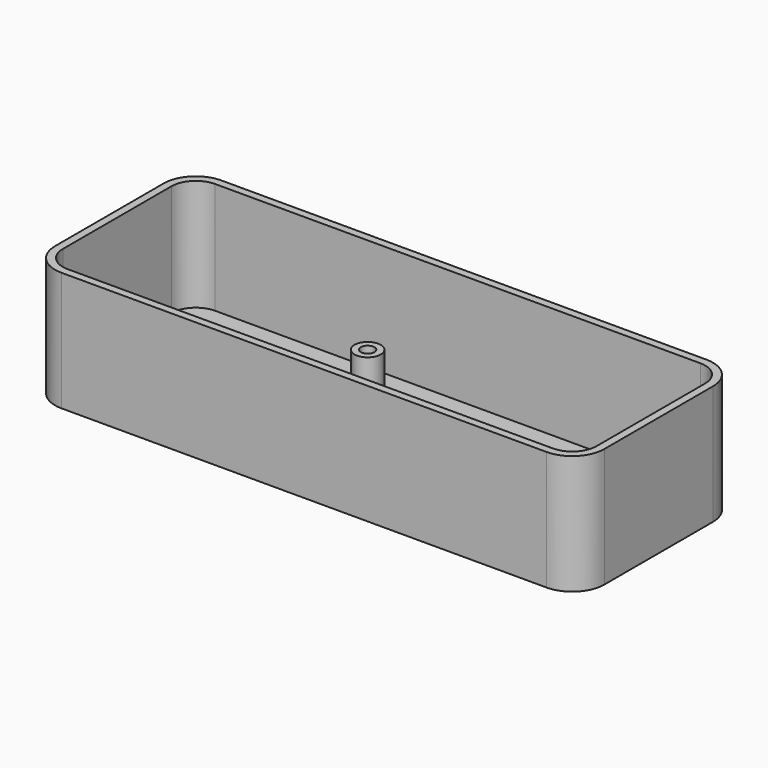
from build123d import *

# Parameters (mm, degrees)
SKETCH002_R      = 2.7
SKETCH002_R_2    = 1.4
EXTRUDE001_DEPTH = 7
EXTRUDE002_DEPTH = 23
EXTRUDE_DEPTH    = 1.6


with BuildPart() as obj1:
    # Sketch002 (on Face10 of Extrude) → Extrude001 (new body)
    with BuildSketch(Plane.XY.offset(-10.4)):
        with Locations((90.524621, -65.993824)):
            Circle(SKETCH002_R)
        with Locations((90.524621, -65.993824)):
            Circle(SKETCH002_R_2, mode=Mode.SUBTRACT)
        with Locations((90.502441, -92.471822)):
            Circle(SKETCH002_R)
        with Locations((90.502441, -92.471822)):
            Circle(SKETCH002_R_2, mode=Mode.SUBTRACT)
        with Locations((153.513474, -66.00515)):
            Circle(SKETCH002_R)
        with Locations((153.513474, -66.00515)):
            Circle(SKETCH002_R_2, mode=Mode.SUBTRACT)
        with Locations((153.502167, -92.48777)):
            Circle(SKETCH002_R)
        with Locations((153.502167, -92.48777)):
            Circle(SKETCH002_R_2, mode=Mode.SUBTRACT)
    extrude(amount=EXTRUDE001_DEPTH)


with BuildPart() as obj1_1:
    # Extrude001 placement: moved
    add(obj1.part.moved(Location((35, 0, 0))))


with BuildPart() as walls:
    # Sketch → Extrude002 (new body)
    with BuildSketch(Plane.XY):
        with BuildLine():
            Line((89.498192, -99.850084), (189.498192, -99.850084))
            ThreePointArc((189.498192, -99.850084), (194.165097, -97.916989), (196.098192, -93.250084))
            Line((196.098192, -93.250084), (196.098192, -65.250084))
            ThreePointArc((196.098192, -65.250084), (194.165097, -60.583179), (189.498192, -58.650084))
            Line((189.498192, -58.650084), (89.498192, -58.650084))
            ThreePointArc((89.498192, -58.650084), (84.831287, -60.583179), (82.898192, -65.250084))
            Line((82.898192, -65.250084), (82.898192, -93.250084))
            ThreePointArc((82.898192, -93.250084), (84.831287, -97.916989), (89.498192, -99.850084))
        make_face()
        with BuildLine():
            Line((89.498192, -60.250084), (189.498192, -60.250084))
            ThreePointArc((194.498192, -65.250084), (193.033726, -61.71455), (189.498192, -60.250084))
            Line((194.498192, -65.250084), (194.498192, -93.250084))
            ThreePointArc((189.498192, -98.250084), (193.033726, -96.785618), (194.498192, -93.250084))
            Line((189.498192, -98.250084), (89.498192, -98.250084))
            ThreePointArc((84.498192, -93.250084), (85.962658, -96.785618), (89.498192, -98.250084))
            Line((84.498192, -93.250084), (84.498192, -65.250084))
            ThreePointArc((89.498192, -60.250084), (85.962658, -61.71455), (84.498192, -65.250084))
        make_face(mode=Mode.SUBTRACT)
    extrude(amount=EXTRUDE002_DEPTH)


with BuildPart() as walls_1:
    # Extrude002 placement: moved
    add(walls.part.moved(Location((0, 0, -10.4))))


with BuildPart() as doos:
    # Sketch001 → Extrude (new body)
    with BuildSketch(Plane.XY):
        with BuildLine():
            Line((89.498192, -99.850084), (189.498192, -99.850084))
            ThreePointArc((189.498192, -99.850084), (194.165097, -97.916989), (196.098192, -93.250084))
            Line((196.098192, -93.250084), (196.098192, -65.250084))
            ThreePointArc((196.098192, -65.250084), (194.165097, -60.583179), (189.498192, -58.650084))
            Line((189.498192, -58.650084), (89.498192, -58.650084))
            ThreePointArc((89.498192, -58.650084), (84.831287, -60.583179), (82.898192, -65.250084))
            Line((82.898192, -65.250084), (82.898192, -93.250084))
            ThreePointArc((82.898192, -93.250084), (84.831287, -97.916989), (89.498192, -99.850084))
        make_face()
    extrude(amount=EXTRUDE_DEPTH)


with BuildPart() as doos_1:
    # Extrude placement: moved
    add(doos.part.moved(Location((0, 0, -12))))

    # Fusion: union obj1, Walls
    add(obj1_1.part)
    add(walls_1.part)


solid = doos_1.part
